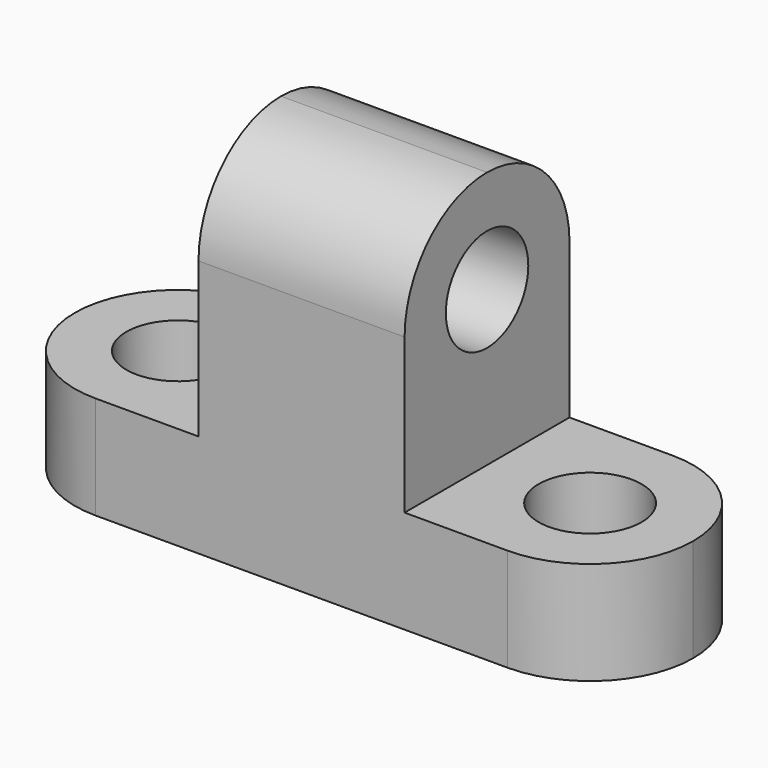
from build123d import *

# Parameters (mm, degrees)
F1_DEPTH  = 25.4
F4_DEPTH  = 25.4
F6_R      = 6.35
F5_R      = 6.35
F7_DEPTH  = 25.4
F9_DEPTH  = 25.4
F10_R     = 6.35
F11_DEPTH = 25.4


with BuildPart() as f1:
    # F0 (on Front) → F1 (new body)
    with BuildSketch(Plane.XZ):
        Polygon((-73.054129, 12.7), (-73.054129, 0), (3.145871, 0), (3.145871, 12.7), (-22.254129, 12.7), (-22.254129, 44.45), (-47.654129, 44.45), (-47.654129, 12.7), align=None)
    extrude(amount=F1_DEPTH)

    # F3 (on face) + F2 (on face) → F4 (cut)
    with BuildSketch(Plane.XY.offset(12.7)):
        with BuildLine():
            ThreePointArc((-73.054129, -12.7), (-69.334385, -3.719744), (-60.354129, 0))
            Line((-60.354129, 0), (-73.054129, 0))
            Line((-73.054129, 0), (-73.054129, -12.7))
        make_face()
        with BuildLine():
            ThreePointArc((-60.354129, -25.4), (-69.334385, -21.680256), (-73.054129, -12.7))
            Line((-73.054129, -12.7), (-73.054129, -25.4))
            Line((-73.054129, -25.4), (-60.354129, -25.4))
        make_face()
    with BuildSketch(Plane.XY.offset(12.7)):
        with BuildLine():
            ThreePointArc((-9.554129, 0), (-0.573873, -3.719744), (3.145871, -12.7))
            Line((3.145871, -12.7), (3.145871, 0))
            Line((3.145871, 0), (-9.554129, 0))
        make_face()
        with BuildLine():
            ThreePointArc((3.145871, -12.7), (-0.573873, -21.680256), (-9.554129, -25.4))
            Line((-9.554129, -25.4), (3.145871, -25.4))
            Line((3.145871, -25.4), (3.145871, -12.7))
        make_face()
    extrude(amount=-F4_DEPTH, mode=Mode.SUBTRACT)

    # F6 (on face) + F5 (on face) → F7 (cut)
    with BuildSketch(Plane.XY.offset(12.7)):
        with Locations((-60.354129, -12.7)):
            Circle(F6_R)
    with BuildSketch(Plane.XY.offset(12.7)):
        with Locations((-9.554129, -12.7)):
            Circle(F5_R)
    extrude(amount=-F7_DEPTH, mode=Mode.SUBTRACT)

    # F8 (on face) → F9 (cut)
    with BuildSketch(Plane.YZ.offset(-22.254129)):
        with BuildLine():
            ThreePointArc((-25.4, 31.75), (-21.680256, 40.730256), (-12.7, 44.45))
            Line((-12.7, 44.45), (-25.4, 44.45))
            Line((-25.4, 44.45), (-25.4, 31.75))
        make_face()
        with BuildLine():
            ThreePointArc((-12.7, 44.45), (-3.719744, 40.730256), (0, 31.75))
            Line((0, 31.75), (0, 44.45))
            Line((0, 44.45), (-12.7, 44.45))
        make_face()
    extrude(amount=-F9_DEPTH, mode=Mode.SUBTRACT)

    # F10 (on face) → F11 (cut)
    with BuildSketch(Plane.YZ.offset(-22.254129)):
        with Locations((-12.7, 31.75)):
            Circle(F10_R)
    extrude(amount=-F11_DEPTH, mode=Mode.SUBTRACT)


solid = f1.part
